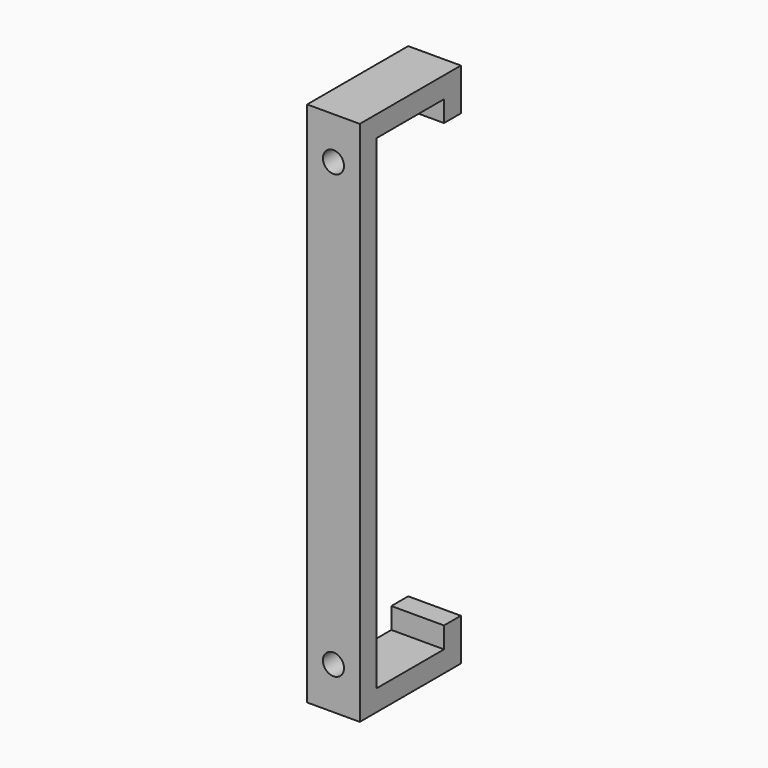
from build123d import *

# Parameters (mm, degrees)
F0_W     = 6.35
F0_H     = 15.24
F1_DEPTH = 63.5
F2_W     = 10.16
F2_H     = 58.42
F3_DEPTH = 25.4
F4_W     = 5.08
F4_H     = 53.34
F5_DEPTH = 25.4
F6_R     = 1.27
F7_DEPTH = 25.4


with BuildPart() as f1:
    # F0 (on Top) → F1 (new body)
    with BuildSketch(Plane.XY):
        with Locations((-3.175, -7.62)):
            Rectangle(F0_W, F0_H)
    extrude(amount=F1_DEPTH)

    # F2 (on face) → F3 (cut)
    with BuildSketch(Plane(origin=(-6.35, 0, 0), x_dir=(0, -1, 0), z_dir=(-1, 0, 0))):
        with Locations((7.62, 31.75)):
            Rectangle(F2_W, F2_H)
    extrude(amount=-F3_DEPTH, mode=Mode.SUBTRACT)

    # F4 (on face) → F5 (cut)
    with BuildSketch(Plane(origin=(-6.35, 0, 0), x_dir=(0, -1, 0), z_dir=(-1, 0, 0))):
        with Locations((1.636012, 31.75)):
            Rectangle(F4_W, F4_H)
    extrude(amount=-F5_DEPTH, mode=Mode.SUBTRACT)

    # F6 (on face) → F7 (cut)
    with BuildSketch(Plane(origin=(0, -12.7, 0), x_dir=(-1, 0, 0), z_dir=(0, 1, 0))):
        with Locations((3.175, 5.08)):
            Circle(F6_R)
        with Locations((3.175, 58.42)):
            Circle(F6_R)
    extrude(amount=-F7_DEPTH, mode=Mode.SUBTRACT)


solid = f1.part
